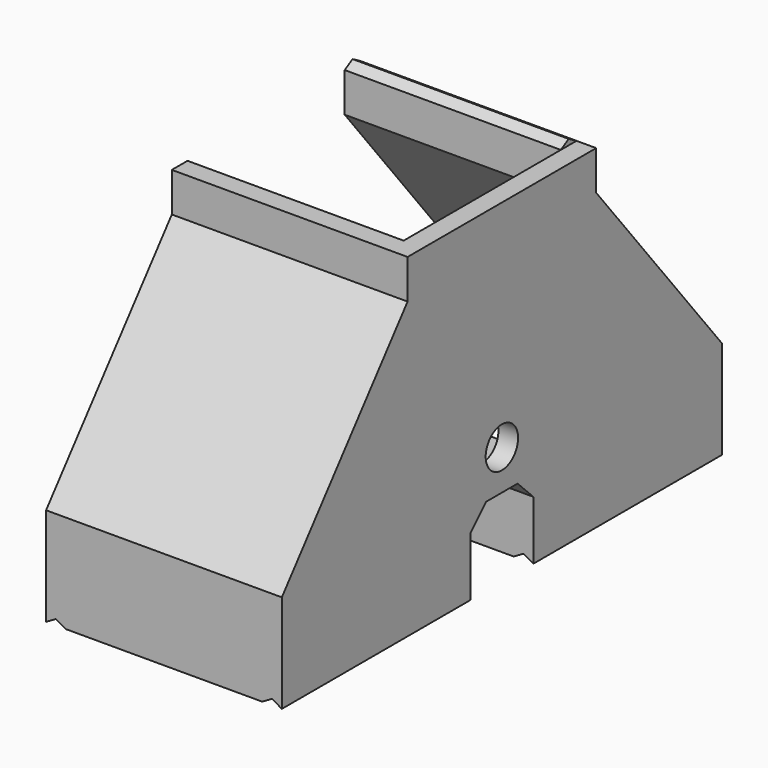
from build123d import *

# Parameters (mm, degrees)
EXTRUDE014_DEPTH = 100
EXTRUDE010_DEPTH = 22
SKETCH009_R      = 4.125
EXTRUDE011_DEPTH = 4


with BuildPart() as extrude014:
    # Sketch012 → Extrude014 (new body, symmetric)
    with BuildSketch(Plane.XZ):
        Polygon((-20, 0), (-24, 0), (-22, 1.154701), align=None)
        Polygon((20, 0), (22, 1.154701), (24, 0), align=None)
    extrude(amount=EXTRUDE014_DEPTH, both=True)


with BuildPart() as extrude014_1:
    # Extrude014 placement: moved
    add(extrude014.part.moved(Location((1, 0, -20))))


with BuildPart() as extrude010:
    # Sketch008 → Extrude010 (new body, symmetric)
    with BuildSketch(Plane.YZ):
        Polygon((-56, 0), (-24, 40), (-24, 48), (-20, 48), (-20, 40), (-52, 0), (-52, -20), (-56, -20), align=None)
        Polygon((52, 0), (20, 40), (20, 48), (22, 49.154701), (24, 48), (24, 40), (56, 0), (56, -20), (52, -20), align=None)
        Polygon((-8, -20), (-12, -20), (-12, -4), (-8, 0), (8, 0), (12, -4), (12, -20), (8, -20), (8, -8), (4, -4), (-4, -4), (-8, -8), align=None)
    extrude(amount=EXTRUDE010_DEPTH, both=True)


with BuildPart() as stage_1_paths:
    # Sketch009 → Extrude011 (new body)
    with BuildSketch(Plane.YZ):
        Polygon((-56, 0), (-24, 40), (-24, 48), (24, 48), (24, 40), (56, 0), (56, -20), (52, -20), (12, -20), (8, -20), (8, -8), (4, -4), (-4, -4), (-8, -8), (-8, -20), (-12, -20), (-52, -20), (-56, -20), align=None)
        with Locations((0, 4.125)):
            Circle(SKETCH009_R, mode=Mode.SUBTRACT)
    extrude(amount=EXTRUDE011_DEPTH)


with BuildPart() as stage_1_paths_1:
    # Extrude011 placement: moved
    add(stage_1_paths.part.moved(Location((22, 0, 0))))

    # Fusion006: union Extrude010
    add(extrude010.part)


with BuildPart() as stage_1_paths_2:
    # Fusion006 placement: moved
    add(stage_1_paths_1.part.moved(Location((-1, 0, 0))))

    # Cut: cut Extrude014
    add(extrude014_1.part, mode=Mode.SUBTRACT)


solid = stage_1_paths_2.part
